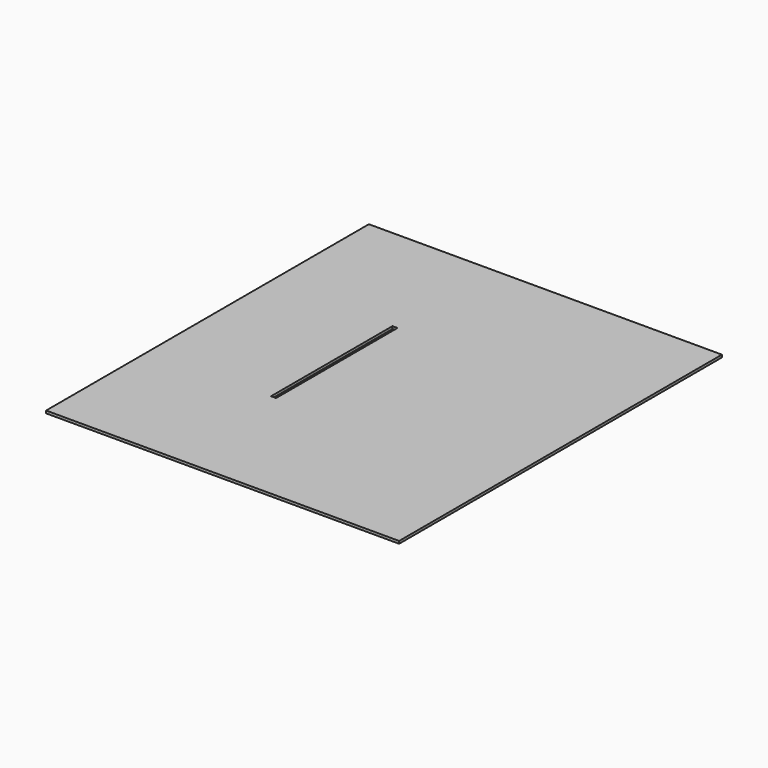
from build123d import *

# Parameters (mm, degrees)
F0_W     = 700
F0_H     = 800
F0_W_2   = 10
F0_H_2   = 301
F1_DEPTH = 5
F2_W     = 94.870865
F2_H     = 35.080195
F3_DEPTH = 25


with BuildPart() as f1:
    # F0 (on Top) → F1 (new body)
    with BuildSketch(Plane.XY):
        Rectangle(F0_W, F0_H)
        with Locations((-103, 5.5)):
            Rectangle(F0_W_2, F0_H_2, mode=Mode.SUBTRACT)
    extrude(amount=F1_DEPTH)

    # F2 (on face) → F3 (join)
    with BuildSketch(Plane.XY):
        with Locations((180.280223, -316.02779)):
            Rectangle(F2_W, F2_H)
    extrude(amount=-F3_DEPTH)


solid = f1.part
